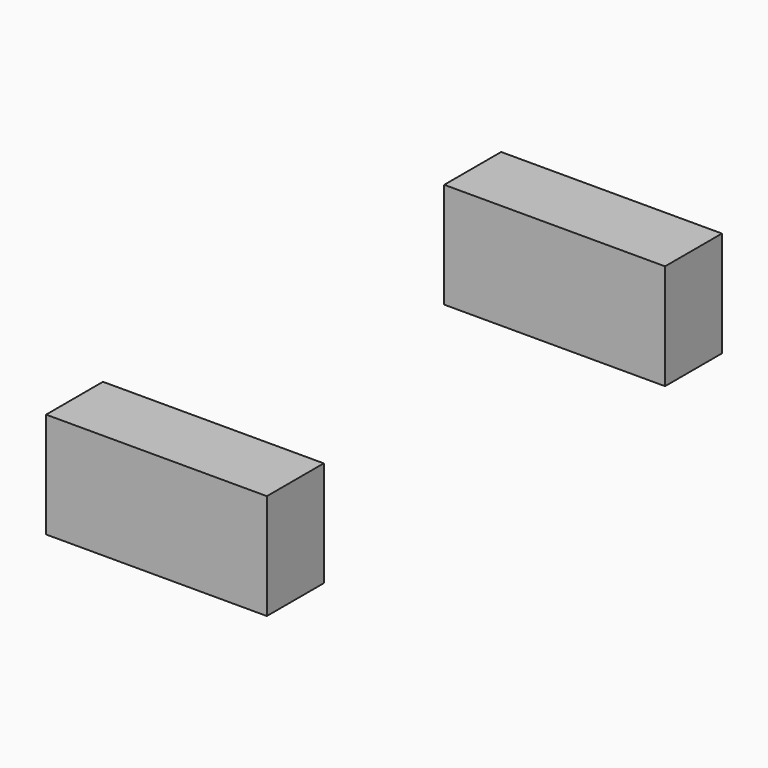
from build123d import *

# Parameters (mm, degrees)
F1_DEPTH = 50.8
F2_DEPTH = 38.1
F3_DEPTH = 25.4


with BuildPart() as f1:
    # F0 (on Front) → F1 (new body, symmetric)
    with BuildSketch(Plane.XZ):
        Polygon((-19.718429, -9.424795), (19.718429, -9.424795), (19.718429, 9.424795), (8.622639, 9.424795), (-19.718429, 9.424795), align=None)
    extrude(amount=F1_DEPTH, both=True)

    # F0 (on Front) → F2 (cut, symmetric)
    with BuildSketch(Plane.XZ):
        Polygon((-19.718429, -9.424795), (19.718429, -9.424795), (19.718429, 9.424795), (8.622639, 9.424795), (-19.718429, 9.424795), align=None)
        with BuildLine():
            Line((8.622639, 9.424795), (19.718429, 9.424795))
            Line((19.718429, 9.424795), (19.718429, 16.443158))
            ThreePointArc((19.718429, 16.443158), (21.343754, 20.367038), (25.267634, 21.992363))
            Line((25.267634, 21.992363), (34.490546, 21.992363))
            Line((34.490546, 21.992363), (34.490546, 33.088153))
            Line((34.490546, 33.088153), (25.267634, 33.088153))
            ThreePointArc((25.267634, 33.088153), (13.497845, 28.212947), (8.622639, 16.443158))
            Line((8.622639, 16.443158), (8.622639, 9.424795))
        make_face()
    extrude(amount=F2_DEPTH, both=True, mode=Mode.SUBTRACT)

    # F0 (on Front) → F3 (cut, symmetric)
    with BuildSketch(Plane.XZ):
        with BuildLine():
            add(Edge.make_bspline(
                [(-19.718429, 9.424795), (-19.792453, 30.460717), (0, 33.08684), (25.267634, 33.088153)],
                knots=[0, 0, 0, 0, 50.830113, 50.830113, 50.830113, 50.830113], degree=3))
            Line((-19.718429, 9.424795), (8.622639, 9.424795))
            Line((8.622639, 9.424795), (8.622639, 16.443158))
            ThreePointArc((8.622639, 16.443158), (13.497845, 28.212947), (25.267634, 33.088153))
        make_face()
    extrude(amount=F3_DEPTH, both=True, mode=Mode.SUBTRACT)


solid = f1.part
